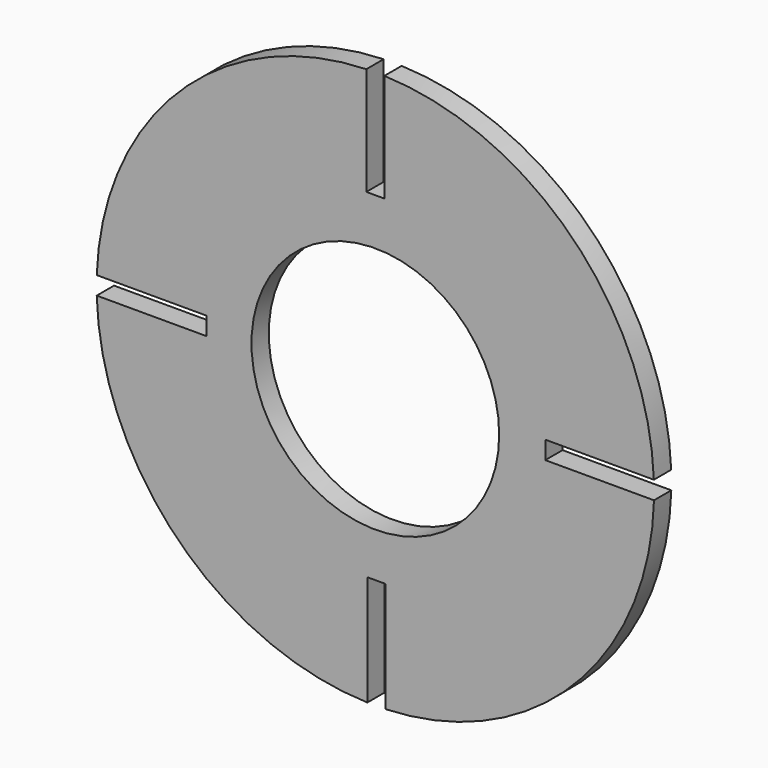
from build123d import *

# Parameters (mm, degrees)
F0_R     = 17.173846
F1_DEPTH = 3


with BuildPart() as f1:
    # F0 (on Front) → F1 (new body)
    with BuildSketch(Plane.XZ):
        with BuildLine():
            Line((23.562509, 1.479761), (38.621662, 1.479761))
            ThreePointArc((38.621662, 1.479761), (27.248273, 27.41084), (1.25, 38.629781))
            Line((1.25, 38.629781), (1.25, 23.65))
            Line((1.25, 23.65), (-1.25, 23.65))
            Line((-1.25, 23.65), (-1.25, 38.629781))
            ThreePointArc((-1.25, 38.629781), (-27.298709, 27.36061), (-38.626851, 1.337491))
            Line((-38.626851, 1.337491), (-23.420239, 1.337491))
            Line((-23.420239, 1.337491), (-23.420239, -1.162509))
            Line((-23.420239, -1.162509), (-38.632513, -1.162509))
            ThreePointArc((-38.632513, -1.162509), (-27.310295, -27.349046), (-1.10773, -38.634123))
            Line((-1.10773, -38.634123), (-1.10773, -23.332748))
            Line((-1.10773, -23.332748), (1.39227, -23.332748))
            Line((1.39227, -23.332748), (1.39227, -38.624915))
            ThreePointArc((1.39227, -38.624915), (27.460957, -27.197764), (38.636532, -1.020239))
            Line((38.636532, -1.020239), (23.562509, -1.020239))
            Line((23.562509, -1.020239), (23.562509, 1.479761))
        make_face()
        Circle(F0_R, mode=Mode.SUBTRACT)
    extrude(amount=F1_DEPTH)


solid = f1.part
